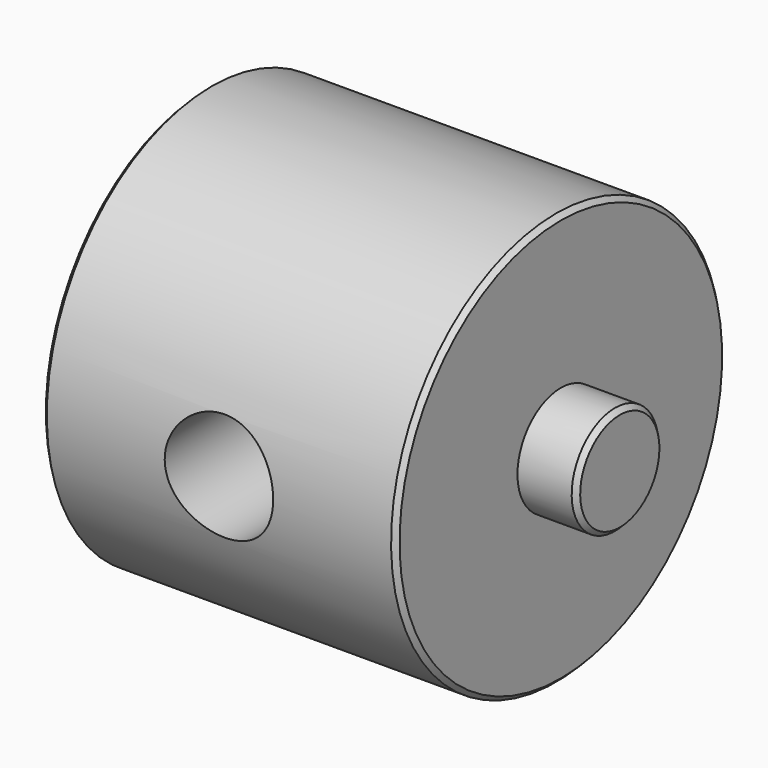
from build123d import *

# Parameters (mm, degrees)
F0_W     = 3.175
F0_H     = 2.921
F0_W_2   = 19.05
F0_H_2   = 8.1915
F2_R     = 2.921
F3_DEPTH = 254
F4_SIZE  = 0.254


with BuildPart() as f1:
    # F0 (on Front) → F1 (revolve)
    with BuildSketch(Plane.XZ):
        with Locations((-11.1125, 1.4605)):
            Rectangle(F0_W, F0_H)
        with Locations((0, 1.4605)):
            Rectangle(F0_W_2, F0_H)
        with Locations((11.1125, 1.4605)):
            Rectangle(F0_W, F0_H)
        with Locations((0, 7.01675)):
            Rectangle(F0_W_2, F0_H_2)
    revolve(axis=Axis((0, 0, 0), (1, 0, 0)))

    # F2 (on Front) → F3 (cut, symmetric)
    with BuildSketch(Plane.XZ):
        Circle(F2_R)
    extrude(amount=F3_DEPTH, both=True, mode=Mode.SUBTRACT)

    # F4
    f4_edges = [f1.edges().sort_by_distance(p)[0] for p in [
        (-12.7, 0, -2.921),
        (-9.525, 0, -11.1125),
        (9.525, 0, -11.1125),
        (12.7, 0, -2.921),
    ]]
    chamfer(f4_edges, length=F4_SIZE)


solid = f1.part
